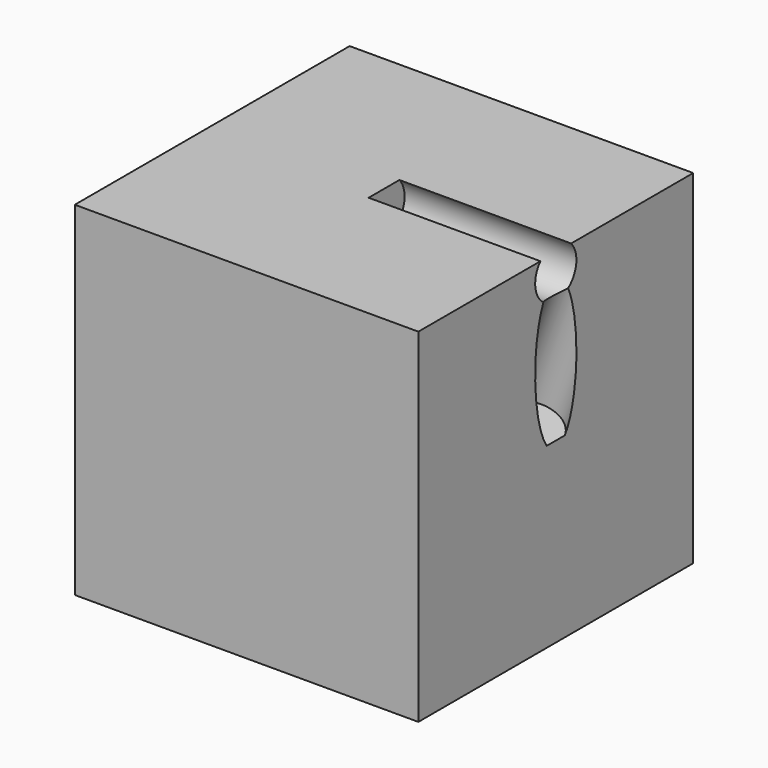
from build123d import *

# Parameters (mm, degrees)
F0_W          = 100
F0_H          = 100
F1_DEPTH      = 50
F1_DEPTH_BACK = 50
F3_R          = 7.5


with BuildPart() as f1:
    # F0 (on Front) → F1 (new body, two sides)
    with BuildSketch(Plane.XZ) as f1_sk:
        Rectangle(F0_W, F0_H)
    extrude(amount=F1_DEPTH)
    extrude(f1_sk.sketch, amount=-F1_DEPTH_BACK)

    # F4: sweep along a path in F2
    with BuildLine(Plane.XZ) as f4_path:
        Line((0, 25), (30, 25))
        Line((30, 25), (24.8696978501, 10.9046106882))
    # F3 (on Right) → F4 (sweep, cut)
    with BuildSketch(Plane.YZ):
        with Locations((0, 45)):
            Circle(F3_R)
    sweep(path=f4_path.line, transition=Transition.RIGHT, mode=Mode.SUBTRACT)


solid = f1.part
